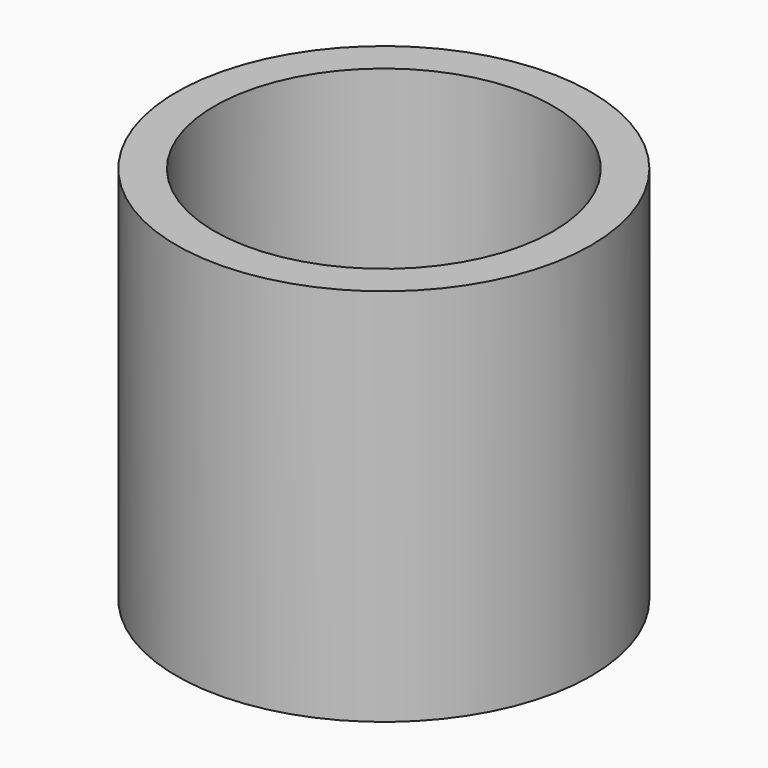
from build123d import *

# Parameters (mm, degrees)
F3_R     = 11.3510766414
F4_DEPTH = 25.4
F0_R     = 13.8925555002
F0_R_2   = 11.3510766414
F5_R     = 11.3510766414
F6_DEPTH = 25.401


with BuildPart() as f4:
    # F3 (on face) → F4 (new body)
    with BuildSketch(Plane.XY):
        with Locations((-55.0634227693, 14.0889985487)):
            Circle(F3_R)
    extrude(amount=F4_DEPTH)

    # F5 (on face) → F6 (cut, through all)
    with BuildSketch(Plane.XY.offset(25.4)):
        with Locations((-55.0634227693, 14.0889985487)):
            Circle(F5_R)
    extrude(amount=-F6_DEPTH, mode=Mode.SUBTRACT)


with BuildPart() as f4b:
    # F0 (on Top) → F4, piece 2 (new body)
    with BuildSketch(Plane.XY):
        with Locations((-55.0634227693, 14.0889985487)):
            Circle(F0_R)
        with Locations((-55.0634227693, 14.0889985487)):
            Circle(F0_R_2, mode=Mode.SUBTRACT)
    extrude(amount=F4_DEPTH)


solid = f4b.part
